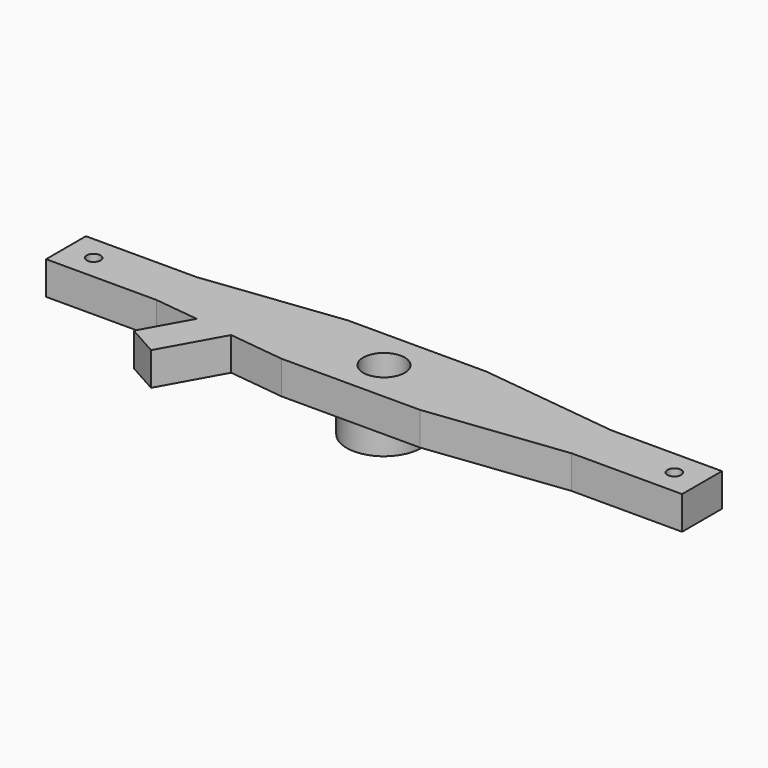
from build123d import *

# Parameters (mm, degrees)
F1_DEPTH = 0.6096
F2_R     = 0.381
F3_DEPTH = 25.4
F4_R     = 0.127
F5_DEPTH = 2.54
F6_R     = 0.6858
F6_R_2   = 0.381
F7_DEPTH = 0.508


with BuildPart() as f1:
    # F0 (on Top) → F1 (new body)
    with BuildSketch(Plane.XY):
        Polygon((1.27, 0.762), (-1.27, 0.762), (-3.81, 0.4572), (-5.842, 0.4572), (-5.842, -0.4572), (-3.81, -0.4572), (-2.998233, -0.554612), (-2.296821, -0.638781), (-1.27, -0.762), (1.27, -0.762), (3.81, -0.4572), (5.842, -0.4572), (5.842, 0.4572), (3.81, 0.4572), align=None)
        Polygon((-2.296821, -0.638781), (-2.998233, -0.554612), (-3.471884, -1.405351), (-2.900672, -1.723375), align=None)
    extrude(amount=F1_DEPTH)

    # F2 (on face) → F3 (cut)
    with BuildSketch(Plane.XY.offset(0.6096)):
        Circle(F2_R)
    extrude(amount=-F3_DEPTH, mode=Mode.SUBTRACT)

    # F4 (on face) → F5 (cut)
    with BuildSketch(Plane.XY.offset(0.6096)):
        with Locations((-5.334, 0)):
            Circle(F4_R)
        with Locations((5.334, 0)):
            Circle(F4_R)
    extrude(amount=-F5_DEPTH, mode=Mode.SUBTRACT)

    # F6 (on Top) → F7 (join)
    with BuildSketch(Plane.XY):
        Circle(F6_R)
        Circle(F6_R_2, mode=Mode.SUBTRACT)
    extrude(amount=-F7_DEPTH)


solid = f1.part
